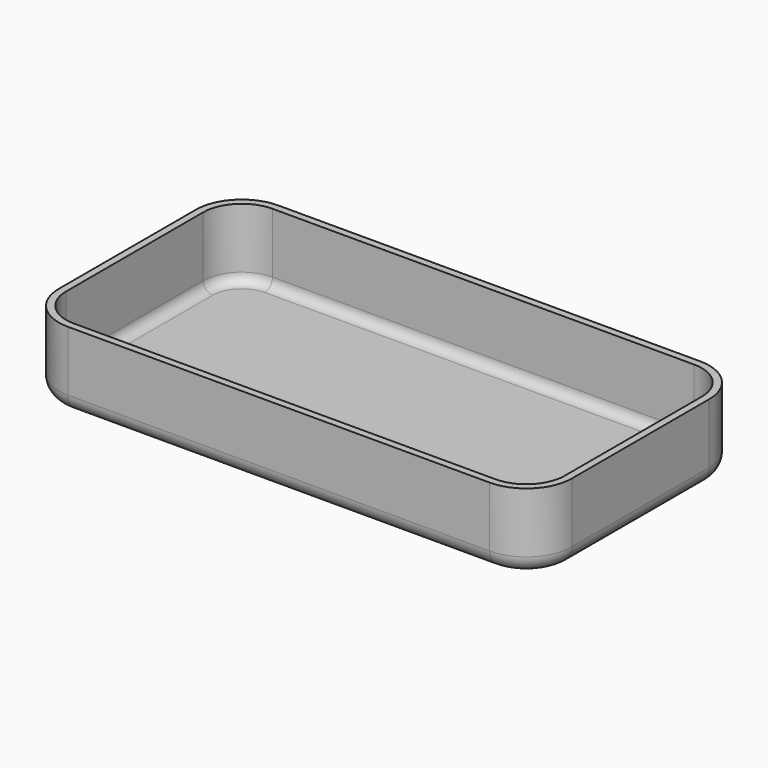
from build123d import *

# Parameters (mm, degrees)
F0_W     = 53.3
F0_H     = 27.3
F0_W_2   = 51.8
F0_H_2   = 25.8
F1_DEPTH = 0.75
F2_DEPTH = 8
F3_R     = 4
F4_R     = 4.75
F5_R     = 1
F6_R     = 1.75


with BuildPart() as f1:
    # F0 (on Top) → F1 (new body)
    with BuildSketch(Plane.XY):
        Rectangle(F0_W, F0_H)
        Rectangle(F0_W_2, F0_H_2, mode=Mode.SUBTRACT)
        Rectangle(F0_W_2, F0_H_2)
    extrude(amount=F1_DEPTH)

    # F0 (on Top) → F2 (join)
    with BuildSketch(Plane.XY):
        Rectangle(F0_W, F0_H)
        Rectangle(F0_W_2, F0_H_2, mode=Mode.SUBTRACT)
    extrude(amount=F2_DEPTH)

    # F3
    f3_edges = [f1.edges().sort_by_distance(p)[0] for p in [
        (-25.9, 12.9, 4.375),
        (25.9, 12.9, 4.375),
        (25.9, -12.9, 4.375),
        (-25.9, -12.9, 4.375),
    ]]
    fillet(f3_edges, radius=F3_R)

    # F4
    f4_edges = [f1.edges().sort_by_distance(p)[0] for p in [
        (26.65, 13.65, 4),
        (26.65, -13.65, 4),
        (-26.65, 13.65, 4),
        (-26.65, -13.65, 4),
    ]]
    fillet(f4_edges, radius=F4_R)

    # F5
    f5_edges = [f1.edges().sort_by_distance(p)[0] for p in [
        (0, 12.9, 0.75),
    ]]
    fillet(f5_edges, radius=F5_R)

    # F6
    f6_edges = [f1.edges().sort_by_distance(p)[0] for p in [
        (0, 13.65, 0),
    ]]
    fillet(f6_edges, radius=F6_R)


solid = f1.part
